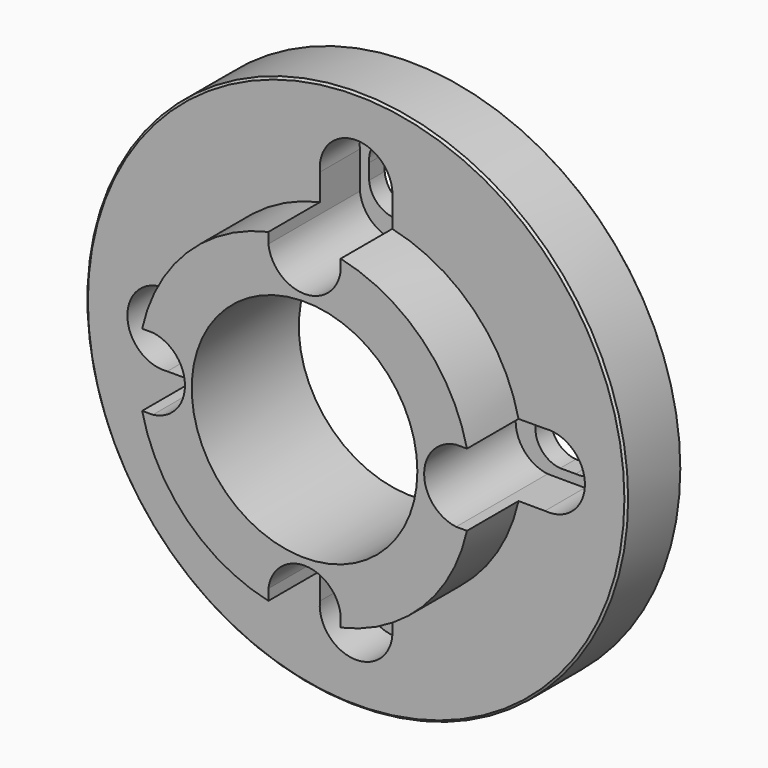
from build123d import *

# Parameters (mm, degrees)
F0_R     = 26
F0_R_2   = 10.85
F1_DEPTH = 6.67
F2_SIZE  = 0.2
F3_R     = 16
F4_DEPTH = 6.2
F5_R     = 10.85
F6_DEPTH = 11


with BuildPart() as f1:
    # F0 (on Front) → F1 (new body)
    with BuildSketch(Plane.XZ):
        Circle(F0_R)
        with BuildLine():
            ThreePointArc((-2.5914037581, -15.78875), (0, -13.4), (2.5914037581, -15.78875))
            Line((2.5914037581, -15.78875), (2.5914037581, -17.2977615707))
            ThreePointArc((2.5914037581, -17.2977615707), (-0.0087763318, -20.1007524005), (-2.5914037581, -17.2815805949))
            Line((-2.5914037581, -17.2815805949), (-2.5914037581, -15.78875))
        make_face(mode=Mode.SUBTRACT)
        with BuildLine():
            ThreePointArc((15.78875, -2.5914037581), (13.4, 0), (15.78875, 2.5914037581))
            Line((15.78875, 2.5914037581), (17.3070686878, 2.5914037581))
            ThreePointArc((17.3070686878, 2.5914037581), (20.1000462874, -0.0189616291), (17.2721013057, -2.5914037581))
            Line((17.2721013057, -2.5914037581), (15.78875, -2.5914037581))
        make_face(mode=Mode.SUBTRACT)
        with BuildLine():
            ThreePointArc((-17.3068571429, -2.592816198), (-20.1, 0), (-17.3068571429, 2.592816198))
            Line((-17.3068571429, 2.592816198), (-16.014371015, 2.5999602831))
            ThreePointArc((-16.014371015, 2.5999602831), (-13.4, 0), (-16.014371015, -2.5999602831))
            Line((-16.014371015, -2.5999602831), (-17.3068571429, -2.592816198))
        make_face(mode=Mode.SUBTRACT)
        Circle(F0_R_2, mode=Mode.SUBTRACT)
        with BuildLine():
            ThreePointArc((2.5914037581, 15.78875), (0, 13.4), (-2.5914037581, 15.78875))
            Line((-2.5914037581, 15.78875), (-2.5914037581, 17.2976958265))
            ThreePointArc((-2.5914037581, 17.2976958265), (-0.0037683158, 20.0993370021), (2.5936213204, 17.3067365048))
            Line((2.5936213204, 17.3067365048), (2.5936213204, 15.8179877846))
            Line((2.5936213204, 15.8179877846), (2.5936213204, 15.78875))
            Line((2.5936213204, 15.78875), (2.5914037581, 15.78875))
        make_face(mode=Mode.SUBTRACT)
    extrude(amount=-F1_DEPTH)

    # F2
    f2_edges = [f1.edges().sort_by_distance(p)[0] for p in [
        (-26, 6.67, 0),
        (-26, 0, 0),
    ]]
    chamfer(f2_edges, length=F2_SIZE)

    # F3 (on face) → F4 (join)
    with BuildSketch(Plane.XZ):
        Circle(F3_R)
    extrude(amount=F4_DEPTH)

    # F5 (on face) → F6 (cut)
    with BuildSketch(Plane.XZ.offset(6.2)):
        Circle(F5_R)
        with BuildLine():
            Line((3.4739061675, 14.57341362), (3.4833905794, 18.1594268488))
            ThreePointArc((3.4833905794, 18.1594268488), (0.0005451634, 21.9999999575), (-3.4834965064, 18.1605120179))
            Line((-3.4834965064, 18.1605120179), (-3.4760989469, 14.5916666667))
            ThreePointArc((-3.4760989469, 14.5916666667), (-0.0091921433, 11.5000120708), (3.4739061675, 14.57341362))
        make_face()
        with BuildLine():
            Line((-14.57341362, 3.4739061675), (-18.1594268488, 3.4833905794))
            ThreePointArc((-18.1594268488, 3.4833905794), (-21.9999999575, 0.0005451634), (-18.1605120179, -3.4834965064))
            Line((-18.1605120179, -3.4834965064), (-14.5916666667, -3.4760989469))
            ThreePointArc((-14.5916666667, -3.4760989469), (-11.5000120708, -0.0091921433), (-14.57341362, 3.4739061675))
        make_face()
        with BuildLine():
            Line((-3.4739061675, -14.57341362), (-3.4833905794, -18.1594268488))
            ThreePointArc((-3.4833905794, -18.1594268488), (-0.0005451634, -21.9999999575), (3.4834965064, -18.1605120179))
            Line((3.4834965064, -18.1605120179), (3.4760989469, -14.5916666667))
            ThreePointArc((3.4760989469, -14.5916666667), (0.0091921433, -11.5000120708), (-3.4739061675, -14.57341362))
        make_face()
        with BuildLine():
            Line((14.57341362, -3.4739061675), (18.1594268488, -3.4833905794))
            ThreePointArc((18.1594268488, -3.4833905794), (21.9999999575, -0.0005451634), (18.1605120179, 3.4834965064))
            Line((18.1605120179, 3.4834965064), (14.5916666667, 3.4760989469))
            ThreePointArc((14.5916666667, 3.4760989469), (11.5000120708, 0.0091921433), (14.57341362, -3.4739061675))
        make_face()
    extrude(amount=-F6_DEPTH, mode=Mode.SUBTRACT)


solid = f1.part
